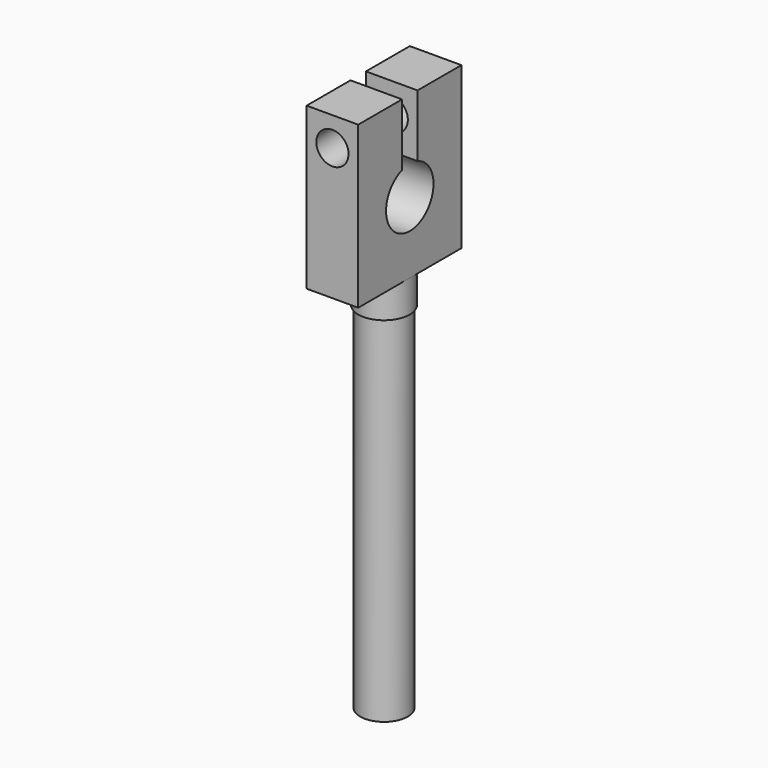
from build123d import *

# Parameters (mm, degrees)
SKETCH_R        = 4
PAD_DEPTH       = 60
SKETCH001_W     = 8
SKETCH001_H     = 20
PAD001_DEPTH    = 25
POCKET_DEPTH    = 8
SKETCH003_R     = 2.5
POCKET001_DEPTH = 30
SKETCH004_R     = 4
SKETCH004_R_2   = 3.7
POCKET002_DEPTH = 55
PAD002_DEPTH    = 8


with BuildPart() as part:
    # Sketch → Pad (new body)
    with BuildSketch(Plane.XY):
        Circle(SKETCH_R)
    extrude(amount=PAD_DEPTH)

    # Sketch001 → Pad001 (new body)
    with BuildSketch(Plane.XY.offset(60)):
        Rectangle(SKETCH001_W, SKETCH001_H)
    extrude(amount=PAD001_DEPTH)

    # Sketch002 → Pocket (cut)
    with BuildSketch(Plane(origin=(-4, 0, 0), x_dir=(0, -1, 0), z_dir=(-1, 0, 0))):
        with BuildLine():
            ThreePointArc((-1.5, 75.769696), (0, 66), (1.5, 75.769696))
            Line((1.5, 85), (1.5, 75.769696))
            Line((1.5, 85), (-1.5, 85))
            Line((-1.5, 85), (-1.5, 75.769696))
        make_face()
    extrude(amount=-POCKET_DEPTH, mode=Mode.SUBTRACT)

    # Sketch003 → Pocket001 (cut)
    with BuildSketch(Plane.XZ.offset(10)):
        with Locations((0, 80.5)):
            Circle(SKETCH003_R)
    extrude(amount=-POCKET001_DEPTH, mode=Mode.SUBTRACT)

    # Sketch004 → Pocket002 (cut)
    with BuildSketch(Plane(origin=(0, 0, 0), x_dir=(1, 0, 0), z_dir=(0, 0, -1))):
        Circle(SKETCH004_R)
        Circle(SKETCH004_R_2, mode=Mode.SUBTRACT)
    extrude(amount=-POCKET002_DEPTH, mode=Mode.SUBTRACT)

    # Sketch005 → Pad002 (new body)
    with BuildSketch(Plane(origin=(-4, 0, 0), x_dir=(0, -1, 0), z_dir=(-1, 0, 0))):
        with BuildLine():
            ThreePointArc((-1.5, 75.348563), (0, 66.4), (1.5, 75.348563))
            Line((1.5, 75.978956), (1.5, 75.348563))
            ThreePointArc((-1.5, 75.978956), (0, 65.8), (1.5, 75.978956))
            Line((-1.5, 75.978956), (-1.5, 75.348563))
        make_face()
    extrude(amount=-PAD002_DEPTH)


solid = part.part
